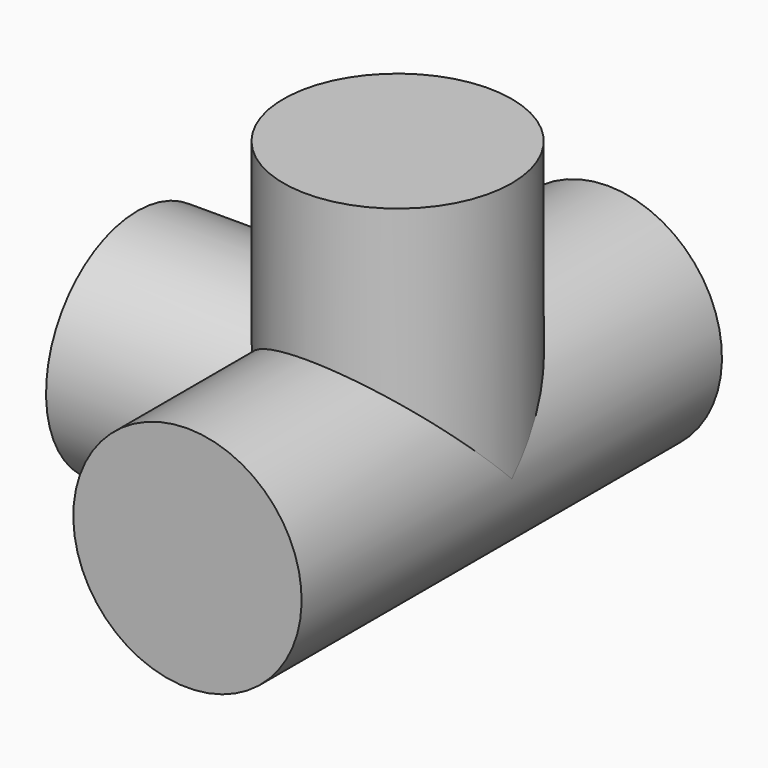
from build123d import *

# Parameters (mm, degrees)
CYLINDER030_R             = 13.9827
CYLINDER030_DEPTH         = 31.877
CYLINDER029_R             = 13.9827
CYLINDER029_DEPTH         = 64.36
CYLINDER031_R             = 13.9827
CYLINDER031_DEPTH         = 31.877
FUSION013_PLACEMENT_ANGLE = 90


with BuildPart() as cylinder030:
    # Cylinder030 → Cylinder030 (new body)
    with BuildSketch(Plane(origin=(0, 0, 0), x_dir=(0, 0, -1), z_dir=(1, 0, 0))):
        Circle(CYLINDER030_R)
    extrude(amount=CYLINDER030_DEPTH)


with BuildPart() as cylinder029:
    # Cylinder029 → Cylinder029 (new body)
    with BuildSketch(Plane.XZ.offset(-32.1818)):
        Circle(CYLINDER029_R)
    extrude(amount=CYLINDER029_DEPTH)


with BuildPart() as front_4_way_r:
    # Cylinder031 → Cylinder031 (new body)
    with BuildSketch(Plane.XY):
        Circle(CYLINDER031_R)
    extrude(amount=CYLINDER031_DEPTH)

    # Fusion014: union Cylinder029
    add(cylinder029.part)

    # Fusion013: union Cylinder030
    add(cylinder030.part)


with BuildPart() as front_4_way_r_1:
    # Fusion013 placement: moved
    add(front_4_way_r.part.moved(Location((730.25, 217, -18))).rotate(Axis((730.25, 217, -18), (0, -1, 0)), FUSION013_PLACEMENT_ANGLE))


solid = front_4_way_r_1.part
